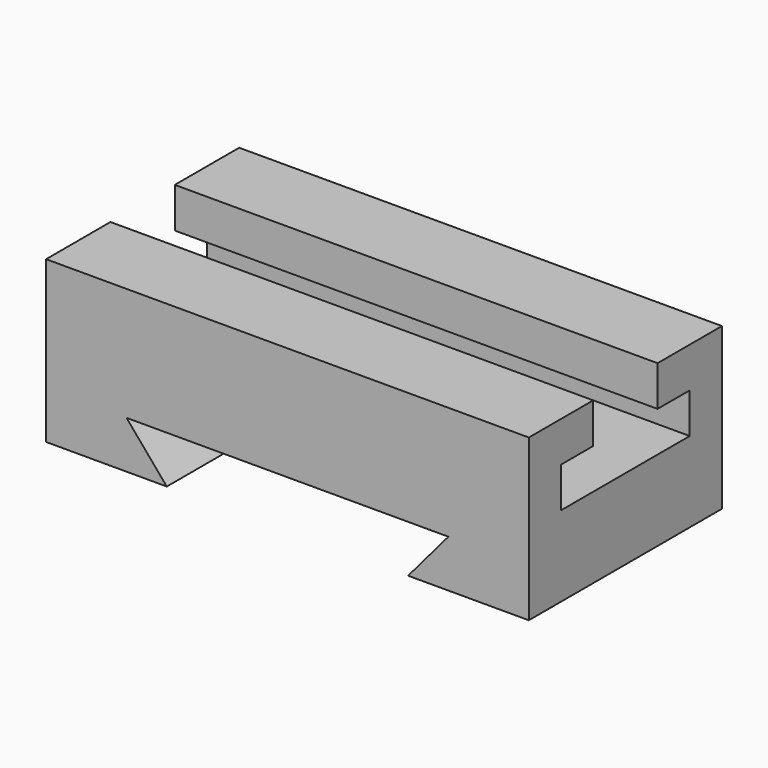
from build123d import *

# Parameters (mm, degrees)
F1_DEPTH = 76.2
F3_DEPTH = 152.4


with BuildPart() as f1:
    # F0 (on Front) → F1 (new body)
    with BuildSketch(Plane.XZ):
        Polygon((75.843668, 50.8), (-76.556332, 50.8), (-76.556332, 0), (-38.456332, 0), (-51.156332, 14.965899), (50.443668, 14.965899), (37.743668, 0), (71.951441, 0), (75.843668, 0), align=None)
    extrude(amount=F1_DEPTH)

    # F2 (on face) → F3 (cut)
    with BuildSketch(Plane.YZ.offset(75.843668)):
        Polygon((-25.4, 50.8), (-50.8, 50.8), (-50.8, 38.1), (-63.5, 38.1), (-63.5, 25.4), (-12.7, 25.4), (-12.7, 38.1), (-25.4, 38.1), align=None)
    extrude(amount=-F3_DEPTH, mode=Mode.SUBTRACT)


solid = f1.part
